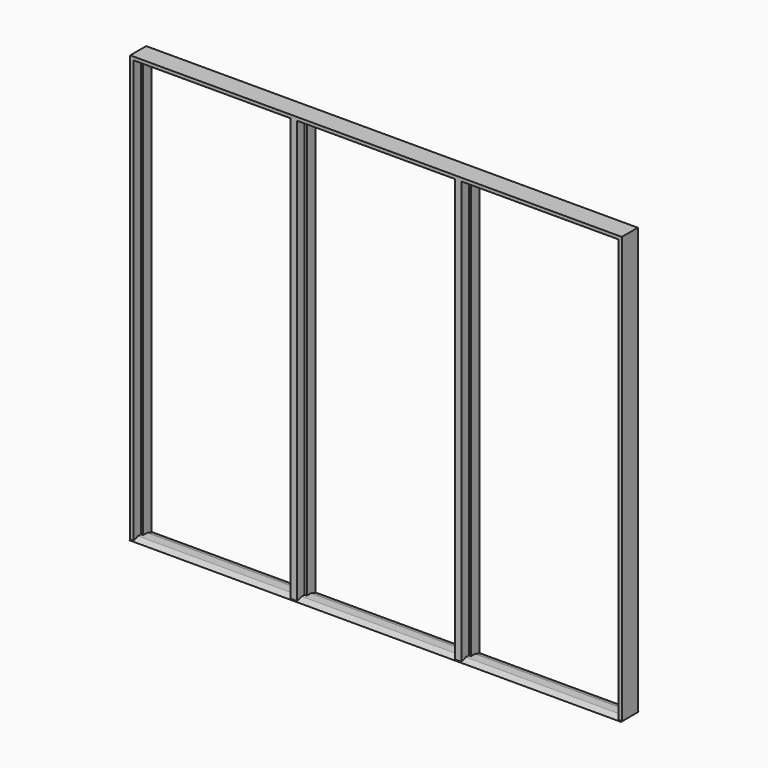
from build123d import *

# Parameters (mm, degrees)
F3_DEPTH      = 61.9125
F5_DEPTH      = 50.8
F5_DEPTH_BACK = 3.175
F7_DEPTH      = 2850.35625


with BuildPart() as f3:
    # F2 (on offset) → F3 (new body)
    with BuildSketch(Plane.XZ.offset(-3.175)):
        Polygon((0, 2454.275), (0, 0), (19.05, 0), (31.75, 0), (31.75, 2441.575), (917.575, 2441.575), (917.575, 0), (930.275, 0), (949.325, 0), (968.375, 0), (981.075, 0), (981.075, 2441.575), (1869.28125, 2441.575), (1869.28125, 0), (1881.98125, 0), (1901.03125, 0), (1920.08125, 0), (1932.78125, 0), (1932.78125, 2441.575), (2818.60625, 2441.575), (2818.60625, 0), (2831.30625, 0), (2850.35625, 0), (2850.35625, 2454.275), (2850.35625, 2473.325), (0, 2473.325), align=None)
    extrude(amount=-F3_DEPTH)

    # F4 (on Front) → F5 (join, two sides)
    with BuildSketch(Plane.XZ) as f5_sk:
        Polygon((0, 2454.275), (0, 0), (19.05, 0), (19.05, 2441.575), (19.05, 2454.275), (930.275, 2454.275), (930.275, 0), (949.325, 0), (968.375, 0), (968.375, 2454.275), (1881.98125, 2454.275), (1881.98125, 2441.575), (1881.98125, 0), (1901.03125, 0), (1920.08125, 0), (1920.08125, 2441.575), (1920.08125, 2454.275), (2831.30625, 2454.275), (2831.30625, 2441.575), (2831.30625, 0), (2850.35625, 0), (2850.35625, 2454.275), (2850.35625, 2473.325), (0, 2473.325), align=None)
    extrude(amount=F5_DEPTH)
    extrude(f5_sk.sketch, amount=-F5_DEPTH_BACK)

    # F6 (on Right) → F7 (join, through all)
    with BuildSketch(Plane.YZ):
        Polygon((7.14375, 0), (65.0875, 0), (70.64375, 0), (32.54375, 12.7), (-18.25625, 12.7), (-56.35625, 0), (-50.8, 0), align=None)
    extrude(amount=F7_DEPTH)


solid = f3.part
